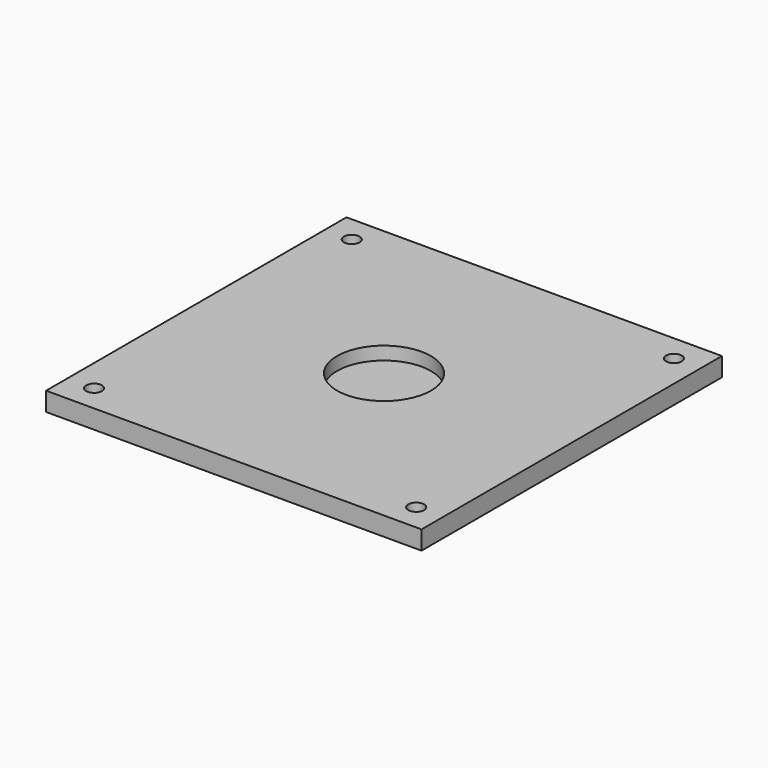
from build123d import *

# Parameters (mm, degrees)
F0_W     = 100
F0_H     = 100
F0_R     = 2.1
F1_DEPTH = 5
F2_R     = 12.5
F3_DEPTH = 3.5


with BuildPart() as f1:
    # F0 (on Top) → F1 (new body)
    with BuildSketch(Plane.XY):
        with Locations((8.118101, -1.848465)):
            Rectangle(F0_W, F0_H)
        with Locations((-34.781899, -44.748465)):
            Circle(F0_R, mode=Mode.SUBTRACT)
        with Locations((51.018101, -44.748465)):
            Circle(F0_R, mode=Mode.SUBTRACT)
        with Locations((-34.781899, 41.051535)):
            Circle(F0_R, mode=Mode.SUBTRACT)
        with Locations((51.018101, 41.051535)):
            Circle(F0_R, mode=Mode.SUBTRACT)
    extrude(amount=F1_DEPTH)

    # F2 (on face) → F3 (cut)
    with BuildSketch(Plane.XY.offset(5)):
        with Locations((8.118101, -1.848465)):
            Circle(F2_R)
    extrude(amount=-F3_DEPTH, mode=Mode.SUBTRACT)


solid = f1.part
